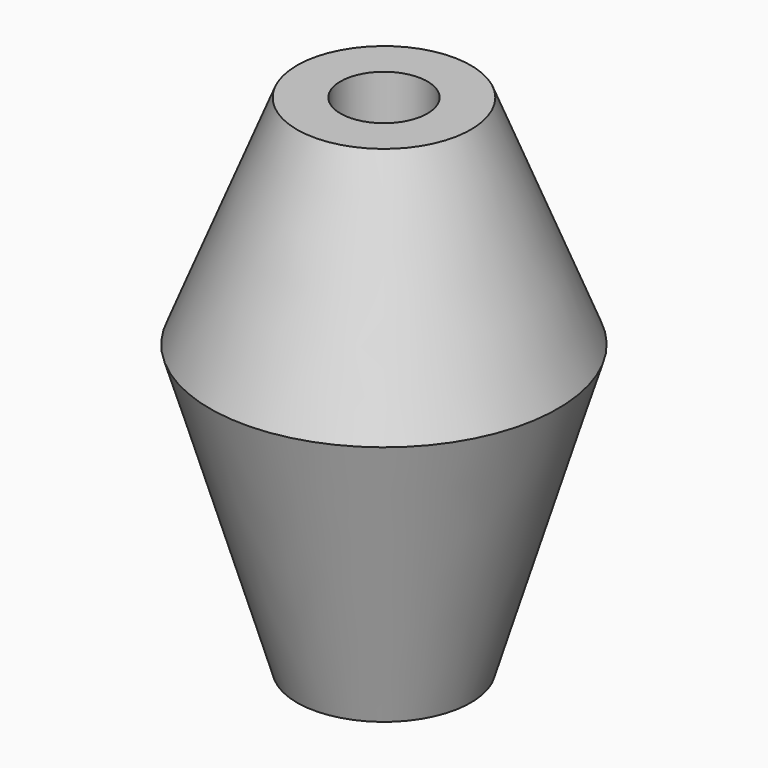
from build123d import *

# Parameters (mm, degrees)
F3_D = 1


with BuildPart() as f1:
    # F0 (on Front) → F1 (revolve)
    with BuildSketch(Plane.XZ):
        Polygon((1, 2.5), (0, 0), (1, 0), align=None)
        Polygon((2, 2.5), (1, 2.5), (1, 0), (1, -3.3), (2, -3.3), align=None)
        Polygon((1, 0), (0, 0), (1, -3.3), align=None)
    revolve(axis=Axis((2, 0, -0.4), (0, 0, -1)))

    # F3 (through all)
    with Locations(Plane.XY.offset(2.5)):
        with Locations((2, 0)):
            Hole(F3_D / 2)


solid = f1.part
